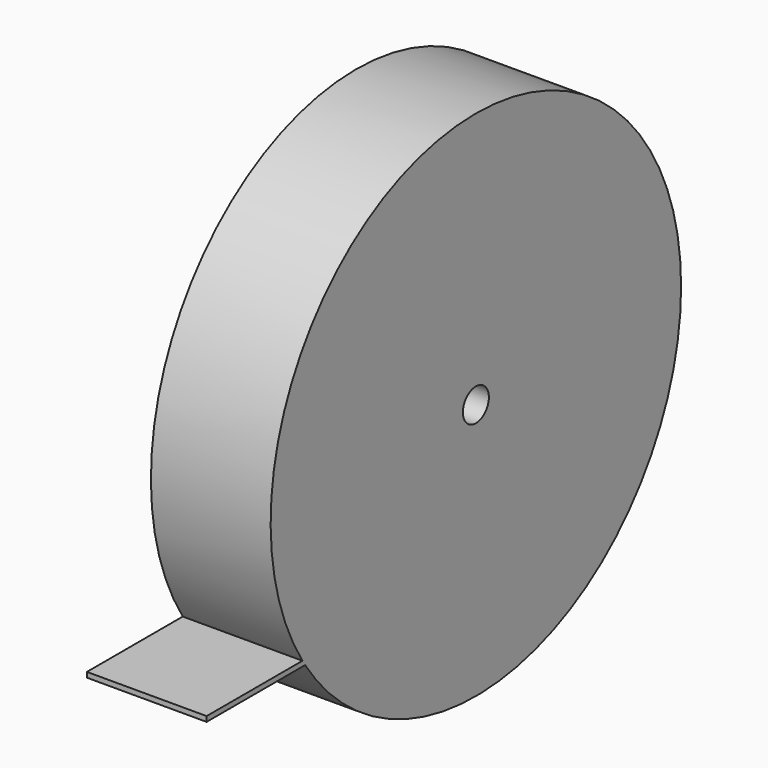
from build123d import *

# Parameters (mm, degrees)
F0_R     = 150
F1_DEPTH = 70
F2_W     = 70
F2_H     = 3
F3_DEPTH = 196.784
F4_R     = 9.5
F5_DEPTH = 184


with BuildPart() as f1:
    # F0 (on Right) → F1 (new body)
    with BuildSketch(Plane.YZ):
        Circle(F0_R)
    extrude(amount=F1_DEPTH)

    # F2 (on Front) → F3 (join)
    with BuildSketch(Plane.XZ):
        with Locations((35, -81.733)):
            Rectangle(F2_W, F2_H)
    extrude(amount=F3_DEPTH)

    # F4 (on face) → F5 (cut)
    with BuildSketch(Plane.YZ.offset(70)):
        Circle(F4_R)
    extrude(amount=-F5_DEPTH, mode=Mode.SUBTRACT)


solid = f1.part
